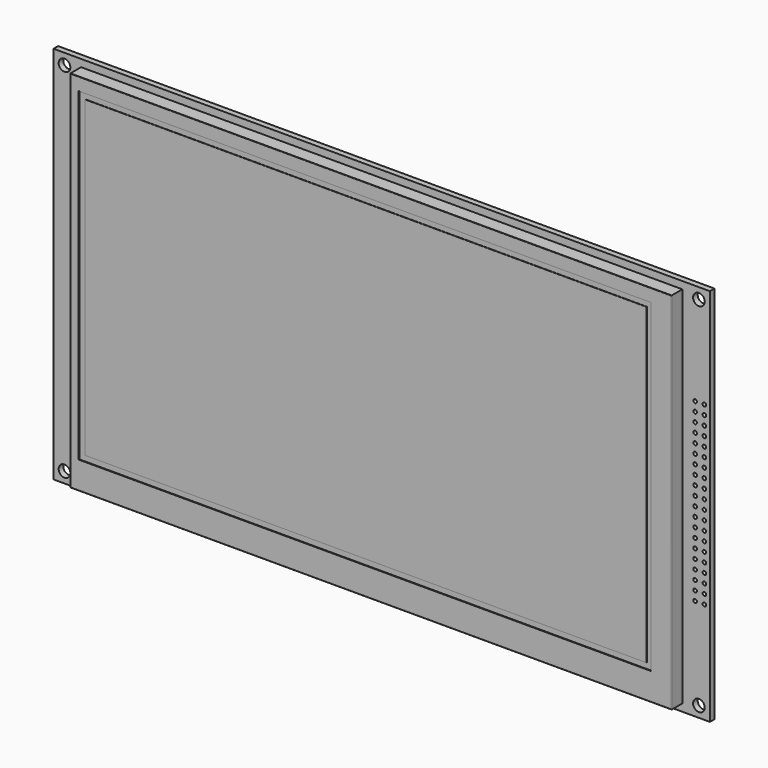
from build123d import *

# Parameters (mm, degrees)
F0_W      = 180
F0_H      = 104
F0_R      = 1.6
F1_DEPTH  = 1.5748
F2_W      = 164.9
F2_H      = 100
F3_DEPTH  = 3.7
F4_W      = 156.9
F4_H      = 89
F5_DEPTH  = 0.2
F6_W      = 154.08
F6_H      = 85.92
F7_DEPTH  = 0.1
F8_R      = 0.1
F9_R      = 0.5
F10_DEPTH = 1.5758


with BuildPart() as f1:
    # F0 (on Front) → F1 (new body)
    with BuildSketch(Plane.XZ):
        Rectangle(F0_W, F0_H)
        with Locations((-87, -49)):
            Circle(F0_R, mode=Mode.SUBTRACT)
        with Locations((87, -49)):
            Circle(F0_R, mode=Mode.SUBTRACT)
        with Locations((-87, 49)):
            Circle(F0_R, mode=Mode.SUBTRACT)
        with Locations((87, 49)):
            Circle(F0_R, mode=Mode.SUBTRACT)
    extrude(amount=F1_DEPTH)

    # F2 (on face) → F3 (join)
    with BuildSketch(Plane.XZ.offset(1.5748)):
        Rectangle(F2_W, F2_H)
    extrude(amount=F3_DEPTH)

    # F4 (on face) → F5 (cut)
    with BuildSketch(Plane.XZ.offset(5.2748)):
        with Locations((-1.7, 2)):
            Rectangle(F4_W, F4_H)
    extrude(amount=-F5_DEPTH, mode=Mode.SUBTRACT)

    # F6 (on face) → F7 (join)
    with BuildSketch(Plane.XZ.offset(5.0748)):
        with Locations((-1.49, 2)):
            Rectangle(F6_W, F6_H)
    extrude(amount=F7_DEPTH)

    # F8
    f8_edges = [f1.edges().sort_by_distance(p)[0] for p in [
        (-82.45, -5.2748, 0),
        (0, -5.2748, 50),
        (0, -5.2748, -50),
        (82.45, -5.2748, 0),
    ]]
    fillet(f8_edges, radius=F8_R)

    # F9 (on face) → F10 (cut, through all)
    with BuildSketch(Plane.XZ.offset(1.5748)):
        with Locations((85.96, 13.97)):
            Circle(F9_R)
        with Locations((85.96, 8.89)):
            Circle(F9_R)
        with Locations((85.96, 11.43)):
            Circle(F9_R)
        with Locations((85.96, -19.05)):
            Circle(F9_R)
        with Locations((85.96, -16.51)):
            Circle(F9_R)
        with Locations((85.96, -13.97)):
            Circle(F9_R)
        with Locations((85.96, -11.43)):
            Circle(F9_R)
        with Locations((85.96, -8.89)):
            Circle(F9_R)
        with Locations((85.96, -6.35)):
            Circle(F9_R)
        with Locations((85.96, -3.81)):
            Circle(F9_R)
        with Locations((85.96, -1.27)):
            Circle(F9_R)
        with Locations((85.96, 3.81)):
            Circle(F9_R)
        with Locations((88.5, -16.51)):
            Circle(F9_R)
        with Locations((85.96, 6.35)):
            Circle(F9_R)
        with Locations((85.96, 16.51)):
            Circle(F9_R)
        with Locations((88.5, 19.05)):
            Circle(F9_R)
        with Locations((85.96, 19.05)):
            Circle(F9_R)
        with Locations((85.96, 21.59)):
            Circle(F9_R)
        with Locations((88.5, 21.59)):
            Circle(F9_R)
        with Locations((88.5, -19.05)):
            Circle(F9_R)
        with Locations((85.96, 24.13)):
            Circle(F9_R)
        with Locations((88.5, 13.97)):
            Circle(F9_R)
        with Locations((88.5, -8.89)):
            Circle(F9_R)
        with Locations((88.5, -1.27)):
            Circle(F9_R)
        with Locations((88.5, 16.51)):
            Circle(F9_R)
        with Locations((85.96, 1.27)):
            Circle(F9_R)
        with Locations((88.5, 24.13)):
            Circle(F9_R)
        with Locations((88.5, 6.35)):
            Circle(F9_R)
        with Locations((88.5, -6.35)):
            Circle(F9_R)
        with Locations((88.5, -21.59)):
            Circle(F9_R)
        with Locations((88.5, 1.27)):
            Circle(F9_R)
        with Locations((88.5, -13.97)):
            Circle(F9_R)
        with Locations((88.5, 8.89)):
            Circle(F9_R)
        with Locations((88.5, -3.81)):
            Circle(F9_R)
        with Locations((88.5, 3.81)):
            Circle(F9_R)
        with Locations((88.5, -11.43)):
            Circle(F9_R)
        with Locations((88.5, 11.43)):
            Circle(F9_R)
        with Locations((85.96, -24.13)):
            Circle(F9_R)
        with Locations((88.5, -24.13)):
            Circle(F9_R)
        with Locations((85.96, -21.59)):
            Circle(F9_R)
    extrude(amount=-F10_DEPTH, mode=Mode.SUBTRACT)


solid = f1.part
